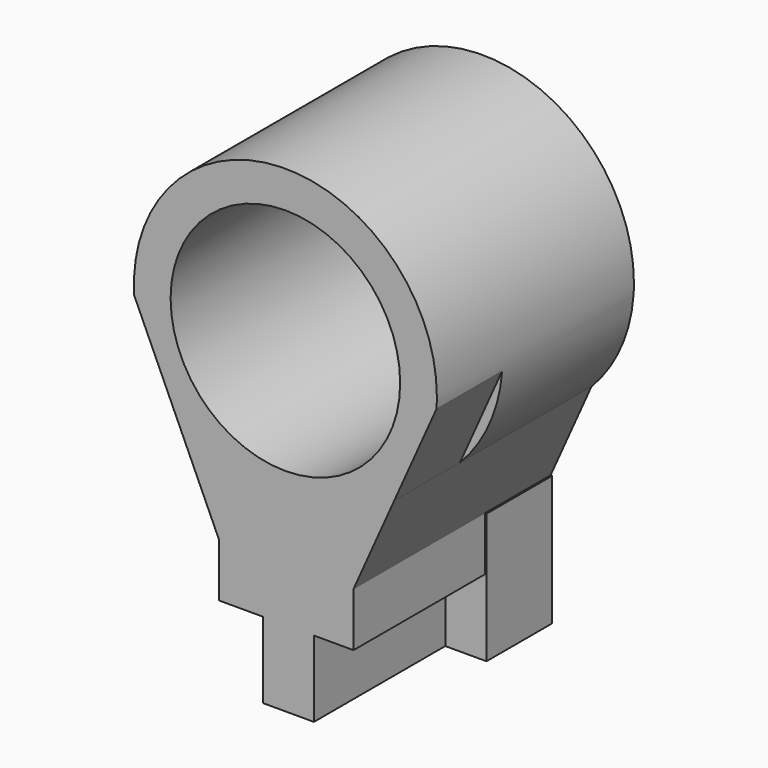
from build123d import *

# Parameters (mm, degrees)
F0_R          = 17.7524356155
F0_W          = 7.8417137265
F0_H          = 11.7625724524
F1_DEPTH      = 12.7
F0_W_2        = 6.861500442
F2_DEPTH      = 12.7
F3_DEPTH      = 12.7
F4_DEPTH      = 12.7
F5_DEPTH      = 12.7
F5_DEPTH_BACK = 12.7


with BuildPart() as f1:
    # F0 (on Front) → F1 (new body)
    with BuildSketch(Plane.XZ):
        with BuildLine():
            ThreePointArc((52.2818670696, 21.9389039537), (52.3286615447, 22.7927192156), (52.3442666326, 23.6476734281))
            ThreePointArc((52.3442666326, 23.6476734281), (28.1944509327, 47.0644925256), (5.5328658292, 22.2046136927))
            Line((5.5328658292, 22.2046136927), (12.3917076344, 7.0402779271))
            ThreePointArc((12.3917076344, 7.0402779271), (29.1464973283, 0.2208610805), (45.764060769, 7.3681689029))
            Line((45.764060769, 7.3681689029), (52.2818670696, 21.9389039537))
        make_face()
        with Locations((28.9163235575, 23.6476734281)):
            Circle(F0_R, mode=Mode.SUBTRACT)
        with BuildLine():
            ThreePointArc((45.764060769, 7.3681689029), (29.1464973283, 0.2208610805), (12.3917076344, 7.0402779271))
            Line((12.3917076344, 7.0402779271), (18.6240747571, -6.7389737815))
            Line((18.6240747571, -6.7389737815), (39.4536294043, -6.7389737815))
            Line((39.4536294043, -6.7389737815), (45.764060769, 7.3681689029))
        make_face()
        Polygon((39.4536294043, -6.7389737815), (18.6240747571, -6.7389737815), (18.6240747571, -15.0707960129), (25.4855751991, -15.0707960129), (33.3272889256, -15.0707960129), (39.4536294043, -15.0707960129), align=None)
        with Locations((29.4064320624, -20.9520822391)):
            Rectangle(F0_W, F0_H)
    extrude(amount=F1_DEPTH)

    # F0 (on Front) → F2 (join)
    with BuildSketch(Plane.XZ):
        with BuildLine():
            ThreePointArc((52.2818670696, 21.9389039537), (52.3286615447, 22.7927192156), (52.3442666326, 23.6476734281))
            ThreePointArc((52.3442666326, 23.6476734281), (28.1944509327, 47.0644925256), (5.5328658292, 22.2046136927))
            Line((5.5328658292, 22.2046136927), (12.3917076344, 7.0402779271))
            ThreePointArc((12.3917076344, 7.0402779271), (29.1464973283, 0.2208610805), (45.764060769, 7.3681689029))
            Line((45.764060769, 7.3681689029), (52.2818670696, 21.9389039537))
        make_face()
        with Locations((28.9163235575, 23.6476734281)):
            Circle(F0_R, mode=Mode.SUBTRACT)
        with BuildLine():
            Line((12.3917076344, 7.0402779271), (5.5328658292, 22.2046136927))
            ThreePointArc((5.5328658292, 22.2046136927), (7.5702968676, 13.992847625), (12.3917076344, 7.0402779271))
        make_face()
        with BuildLine():
            ThreePointArc((45.764060769, 7.3681689029), (50.3021498595, 14.0813287702), (52.2818670696, 21.9389039537))
            Line((52.2818670696, 21.9389039537), (45.764060769, 7.3681689029))
        make_face()
        with BuildLine():
            ThreePointArc((45.764060769, 7.3681689029), (29.1464973283, 0.2208610805), (12.3917076344, 7.0402779271))
            Line((12.3917076344, 7.0402779271), (18.6240747571, -6.7389737815))
            Line((18.6240747571, -6.7389737815), (39.4536294043, -6.7389737815))
            Line((39.4536294043, -6.7389737815), (45.764060769, 7.3681689029))
        make_face()
        Polygon((39.4536294043, -6.7389737815), (18.6240747571, -6.7389737815), (18.6240747571, -15.0707960129), (25.4855751991, -15.0707960129), (33.3272889256, -15.0707960129), (39.4536294043, -15.0707960129), align=None)
        Polygon((39.6986864507, -6.7389737815), (39.4536294043, -6.7389737815), (39.4536294043, -15.0707960129), (33.3272889256, -15.0707960129), (33.3272889256, -26.8333684653), (39.6986864507, -26.8333684653), align=None)
        with Locations((22.0548249781, -20.9520822391)):
            Rectangle(F0_W_2, F0_H)
        with Locations((29.4064320624, -20.9520822391)):
            Rectangle(F0_W, F0_H)
    extrude(amount=-F2_DEPTH)

    # F3 (add): a face of the model
    f3_faces = [f1.faces().sort_by_distance(p)[0] for p in [
        (28.6947474354, 12.7, 46.1994273244),
    ]]
    extrude(f3_faces, amount=F3_DEPTH)

    # F4 (add): faces of the model
    f4_faces = [f1.faces().sort_by_distance(p)[0] for p in [
        (36.5942272767, 0, -20.6856164164),
        (22.0548249781, 0, -20.9520822391),
    ]]
    extrude(f4_faces, amount=-F4_DEPTH)

    # F5 (cut, two sides): faces of the model
    f5_faces = [f1.faces().sort_by_distance(p)[0] for p in [
        (36.5942272767, 0, -20.6856164164),
        (22.0548249781, 0, -20.9520822391),
    ]]
    extrude(f5_faces, amount=F5_DEPTH, mode=Mode.SUBTRACT)
    extrude(f5_faces, amount=-F5_DEPTH_BACK, mode=Mode.SUBTRACT)


solid = f1.part
